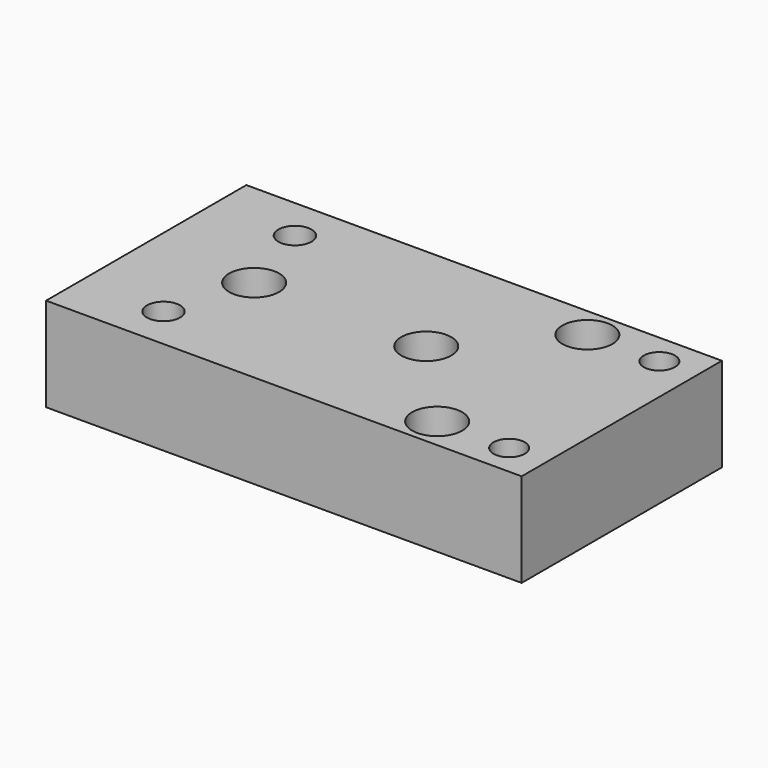
from build123d import *

# Parameters (mm, degrees)
F0_W           = 193.04
F0_H           = 101.6
F0_R           = 6.731
F0_R_2         = 10.16
F0_R_3         = 6.5278
F0_R_4         = 6.35
F1_DEPTH       = 38.1
F2_D           = 12.7
F2_DEPTH       = 50.8
F2_CBORE_D     = 20.32
F2_CBORE_DEPTH = 15.875
F2_TIP         = 3.8154649308
F4_D           = 13.462
F4_DEPTH       = 50.8
F4_TIP         = 4.0443928267
F5_D           = 12.7
F5_DEPTH       = 50.8
F5_CBORE_D     = 20.32
F5_CBORE_DEPTH = 15.875
F5_TIP         = 3.8154649308


with BuildPart() as f1:
    # F0 (on Top) → F1 (new body)
    with BuildSketch(Plane.XY):
        with Locations((748.7553224, -8.8601296)):
            Rectangle(F0_W, F0_H)
        with Locations((685.9330706, -42.1976296)):
            Circle(F0_R, mode=Mode.SUBTRACT)
        with Locations((696.0503224, -8.8601296)):
            Circle(F0_R_2, mode=Mode.SUBTRACT)
        with Locations((685.9330706, 24.4773704)):
            Circle(F0_R, mode=Mode.SUBTRACT)
        with Locations((800.8253224, -46.9601296)):
            Circle(F0_R_2, mode=Mode.SUBTRACT)
        with Locations((830.0353224, -46.9601296)):
            Circle(F0_R_2, mode=Mode.SUBTRACT)
        with Locations((765.9003224, -8.8601296)):
            Circle(F0_R_2, mode=Mode.SUBTRACT)
        with Locations((800.8253224, 29.2398704)):
            Circle(F0_R_2, mode=Mode.SUBTRACT)
        with Locations((830.0353224, 29.2398704)):
            Circle(F0_R_2, mode=Mode.SUBTRACT)
        with Locations((830.0353224, -46.9601296)):
            Circle(F0_R_2)
        with Locations((830.0353224, -46.9601296)):
            Circle(F0_R_3, mode=Mode.SUBTRACT)
        with Locations((800.8253224, 29.2398704)):
            Circle(F0_R_2)
        with Locations((800.8253224, 29.2398704)):
            Circle(F0_R_4, mode=Mode.SUBTRACT)
        with Locations((830.0353224, 29.2398704)):
            Circle(F0_R_2)
        with Locations((830.0353224, 29.2398704)):
            Circle(F0_R_3, mode=Mode.SUBTRACT)
        with Locations((696.0503224, -8.8601296)):
            Circle(F0_R_2)
        with Locations((696.0503224, -8.8601296)):
            Circle(F0_R_4, mode=Mode.SUBTRACT)
        with Locations((800.8253224, -46.9601296)):
            Circle(F0_R_2)
        with Locations((800.8253224, -46.9601296)):
            Circle(F0_R_4, mode=Mode.SUBTRACT)
        with Locations((765.9003224, -8.8601296)):
            Circle(F0_R_2)
        with Locations((765.9003224, -8.8601296)):
            Circle(F0_R_4, mode=Mode.SUBTRACT)
        with Locations((685.9330706, 24.4773704)):
            Circle(F0_R)
        with Locations((685.9330706, -42.1976296)):
            Circle(F0_R)
        with Locations((830.0353224, -46.9601296)):
            Circle(F0_R_3)
        with Locations((830.0353224, 29.2398704)):
            Circle(F0_R_3)
        with Locations((800.8253224, 29.2398704)):
            Circle(F0_R_4)
        with Locations((765.9003224, -8.8601296)):
            Circle(F0_R_4)
        with Locations((696.0503224, -8.8601296)):
            Circle(F0_R_4)
        with Locations((800.8253224, -46.9601296)):
            Circle(F0_R_4)
    extrude(amount=-F1_DEPTH)

    # F2
    with Locations(Plane.XY):
        with Locations((800.8253224, 29.2398704), (800.8253224, -46.9601296), (765.9003224, -8.8601296), (696.0503224, -8.8601296)):
            CounterBoreHole(F2_D / 2, F2_CBORE_D / 2, F2_CBORE_DEPTH, depth=F2_DEPTH)
            with Locations((0, 0, -(F2_DEPTH + F2_TIP / 2))):  # 118° drill point
                Cone(0, F2_D / 2, F2_TIP, mode=Mode.SUBTRACT)


with BuildPart() as f1_1:
    # F3: moved
    add(f1.part.moved(Location((0, 0, 38.1))))

    # F4
    with Locations(Plane(origin=(0, 0, 0), x_dir=(1, 0, 0), z_dir=(0, 0, -1))):
        with Locations((685.9330706, -24.4773704), (685.9330706, 42.1976296)):
            Hole(F4_D / 2, depth=F4_DEPTH)
            with Locations((0, 0, -(F4_DEPTH + F4_TIP / 2))):  # 118° drill point
                Cone(0, F4_D / 2, F4_TIP, mode=Mode.SUBTRACT)

    # F5
    with Locations(Plane(origin=(0, 0, 0), x_dir=(1, 0, 0), z_dir=(0, 0, -1))):
        with Locations((830.0353224, 46.9601296), (830.0353224, -29.2398704)):
            CounterBoreHole(F5_D / 2, F5_CBORE_D / 2, F5_CBORE_DEPTH, depth=F5_DEPTH)
            with Locations((0, 0, -(F5_DEPTH + F5_TIP / 2))):  # 118° drill point
                Cone(0, F5_D / 2, F5_TIP, mode=Mode.SUBTRACT)


solid = f1_1.part
